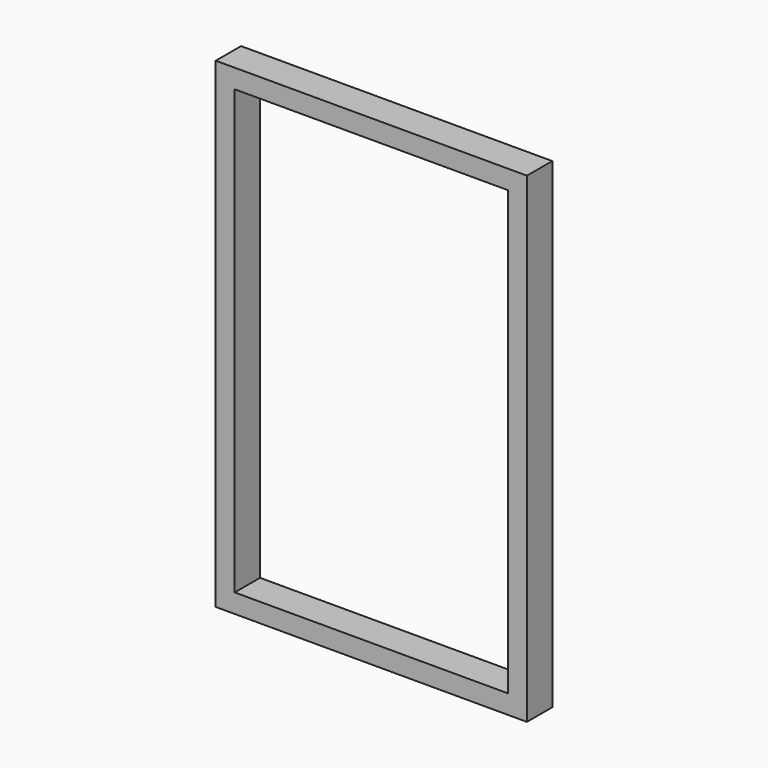
from build123d import *

# Parameters (mm, degrees)
F0_W     = 49.178578
F0_H     = 76
F0_W_2   = 43.178578
F0_H_2   = 70
F1_DEPTH = 5


with BuildPart() as f1:
    # F0 (on Front) → F1 (new body)
    with BuildSketch(Plane.XZ):
        with Locations((1.373827, 21.725268)):
            Rectangle(F0_W, F0_H)
        with Locations((1.373827, 21.725268)):
            Rectangle(F0_W_2, F0_H_2, mode=Mode.SUBTRACT)
    extrude(amount=-F1_DEPTH)


solid = f1.part
